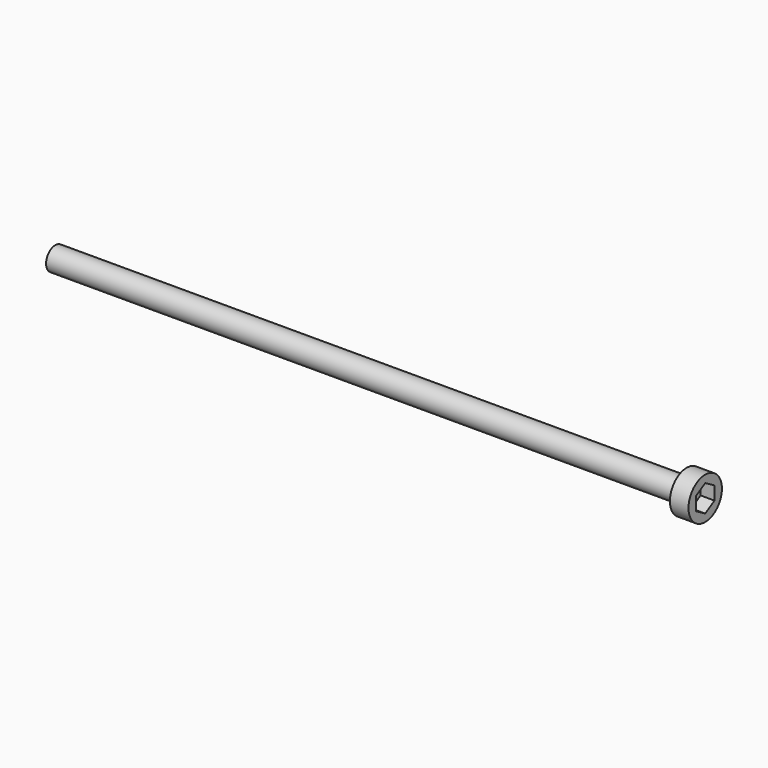
from build123d import *

# Parameters (mm, degrees)
F3_DEPTH = 3


with BuildPart() as f1:
    # F0 (on Top) → F1 (revolve)
    with BuildSketch(Plane.XY):
        Polygon((-4, 2.5), (-140, 2.5), (-140, 0), (0, 0), (0, 4.5), (-4, 4.5), align=None)
    revolve(axis=Axis((-70, 0, 0), (-1, 0, 0)))

    # F2 (on face) → F3 (cut)
    with BuildSketch(Plane.YZ):
        Polygon((2.5, -1.443376), (2.5, 1.443376), (0, 2.886751), (-2.5, 1.443376), (-2.5, -1.443376), (0, -2.886751), align=None)
    extrude(amount=-F3_DEPTH, mode=Mode.SUBTRACT)


solid = f1.part
